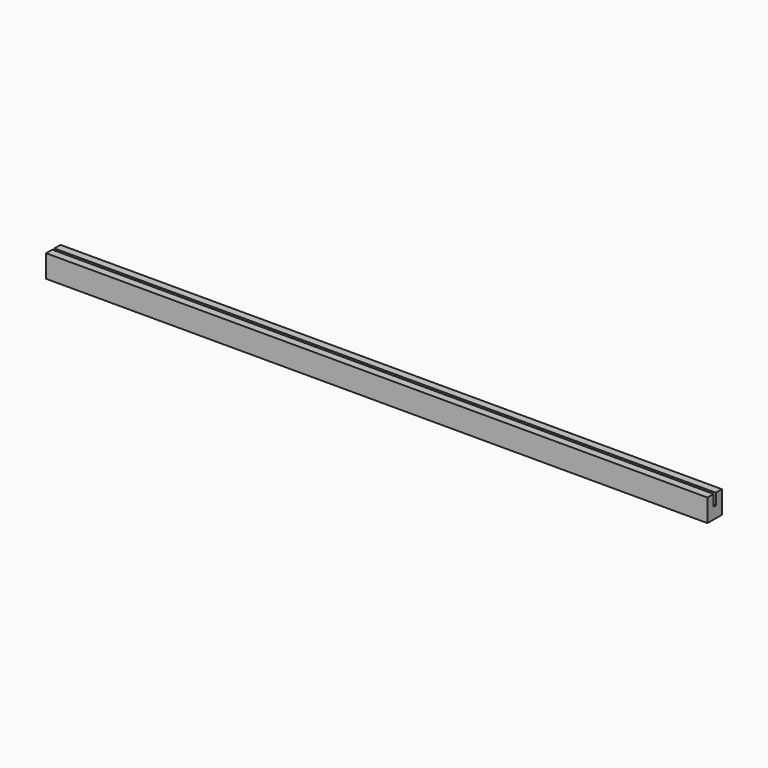
from build123d import *

# Parameters (mm, degrees)
F0_W     = 1466
F0_H     = 40
F1_DEPTH = 50
F3_DEPTH = 25


with BuildPart() as f1:
    # F0 (on Top) → F1 (new body)
    with BuildSketch(Plane.XY):
        with Locations((733, -20)):
            Rectangle(F0_W, F0_H)
    extrude(amount=F1_DEPTH)

    # F2 (on face) → F3 (cut)
    with BuildSketch(Plane.XY.offset(50)):
        Polygon((0, -17), (0, -20), (0, -23), (1466, -23), (1466, -20), (1466, -17), align=None)
    extrude(amount=-F3_DEPTH, mode=Mode.SUBTRACT)


solid = f1.part
